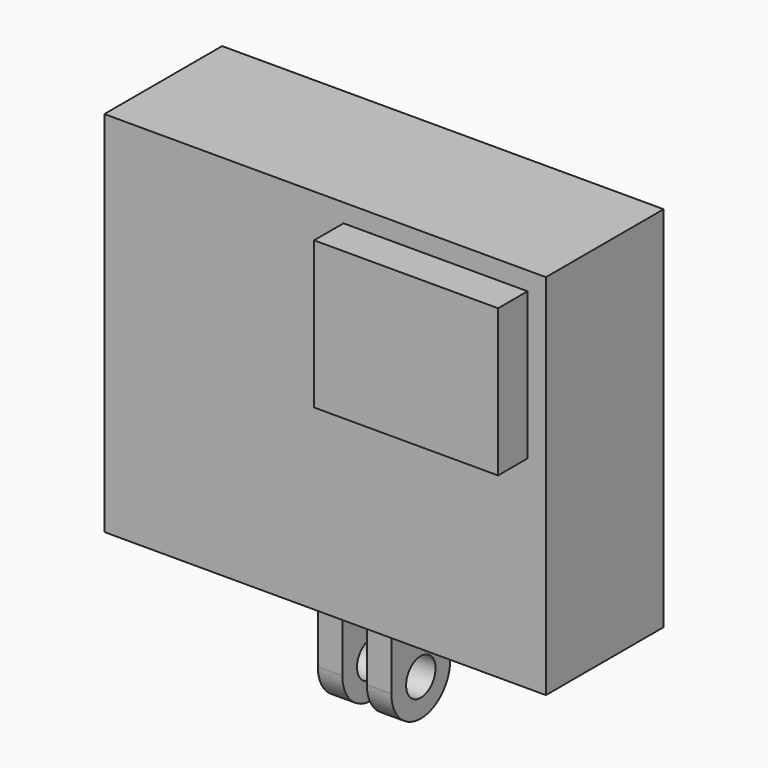
from build123d import *

# Parameters (mm, degrees)
F0_W      = 76.2
F0_H      = 63.5
F0_W_2    = 31.75
F0_H_2    = 25.4
F1_DEPTH  = 25.4
F2_W      = 31.75
F2_H      = 25.4
F3_DEPTH  = 31.75
F6_DEPTH  = 6.35
F7_W      = 4.2333333333
F7_H      = 19.05
F8_DEPTH  = 31.751
F9_R      = 3.175
F10_DEPTH = 44.451


with BuildPart() as f1:
    # F0 (on Front) → F1 (new body)
    with BuildSketch(Plane.XZ):
        Rectangle(F0_W, F0_H)
        with Locations((19.05, 15.875)):
            Rectangle(F0_W_2, F0_H_2, mode=Mode.SUBTRACT)
    extrude(amount=F1_DEPTH)

    # F2 (on face) → F3 (join)
    with BuildSketch(Plane(origin=(0, 0, 0), x_dir=(-1, 0, 0), z_dir=(0, 1, 0))):
        with Locations((-19.05, 15.875)):
            Rectangle(F2_W, F2_H)
    extrude(amount=-F3_DEPTH)

    # F5 (on offset) → F6 (join, symmetric)
    with BuildSketch(Plane(origin=(0, 0, 0), x_dir=(0, -1, 0), z_dir=(-1, 0, 0))):
        with BuildLine():
            Line((6.35, -31.75), (6.35, -44.45))
            ThreePointArc((6.35, -44.45), (12.7, -50.8), (19.05, -44.45))
            Line((19.05, -44.45), (19.05, -31.75))
            Line((19.05, -31.75), (6.35, -31.75))
        make_face()
    extrude(amount=F6_DEPTH, both=True)

    # F7 (on Front) → F8 (cut, through all)
    with BuildSketch(Plane.XZ):
        with Locations((0, -41.275)):
            Rectangle(F7_W, F7_H)
    extrude(amount=F8_DEPTH, mode=Mode.SUBTRACT)

    # F9 (on face) → F10 (cut, through all)
    with BuildSketch(Plane.YZ.offset(6.35)):
        with Locations((-12.7, -44.45)):
            Circle(F9_R)
    extrude(amount=-F10_DEPTH, mode=Mode.SUBTRACT)


solid = f1.part
